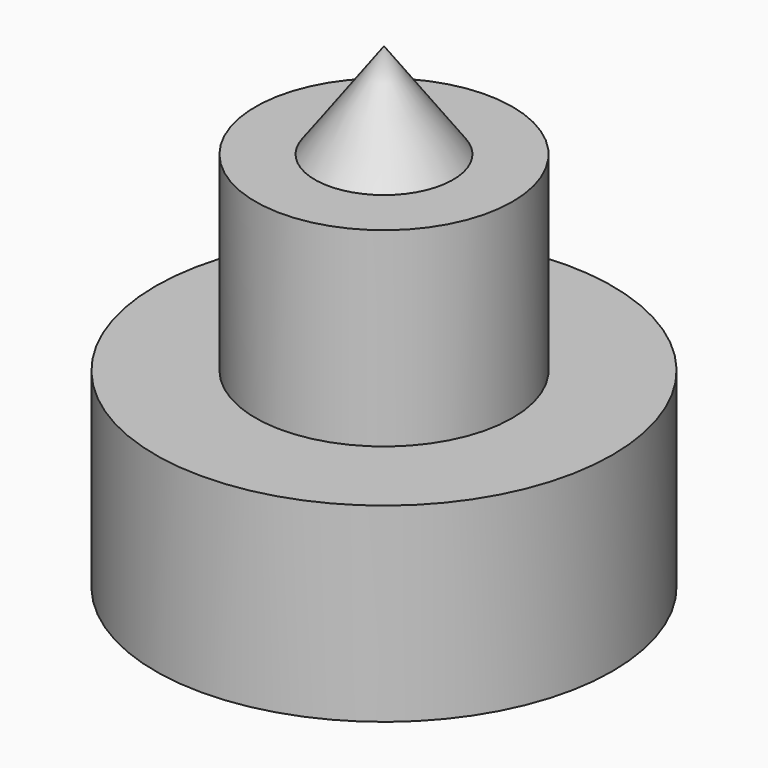
from build123d import *

# Parameters (mm, degrees)
F0_R     = 1.35
F1_DEPTH = 4
F0_R_2   = 2.4
F2_DEPTH = 2


with BuildPart() as f1:
    # F0 (on Top) → F1 (new body)
    with BuildSketch(Plane.XY):
        Circle(F0_R)
    extrude(amount=F1_DEPTH)

    # F0 (on Top) → F2 (join)
    with BuildSketch(Plane.XY):
        Circle(F0_R_2)
        Circle(F0_R, mode=Mode.SUBTRACT)
    extrude(amount=F2_DEPTH)


with BuildPart() as f5:
    # F4 (on Right) → F5 (revolve)
    with BuildSketch(Plane.YZ):
        Polygon((0, 5), (0, 4), (0.725698, 4), align=None)
    revolve(axis=Axis((0, 0, 4.5), (0, 0, -1)))


solid = Compound([f1.part, f5.part])
